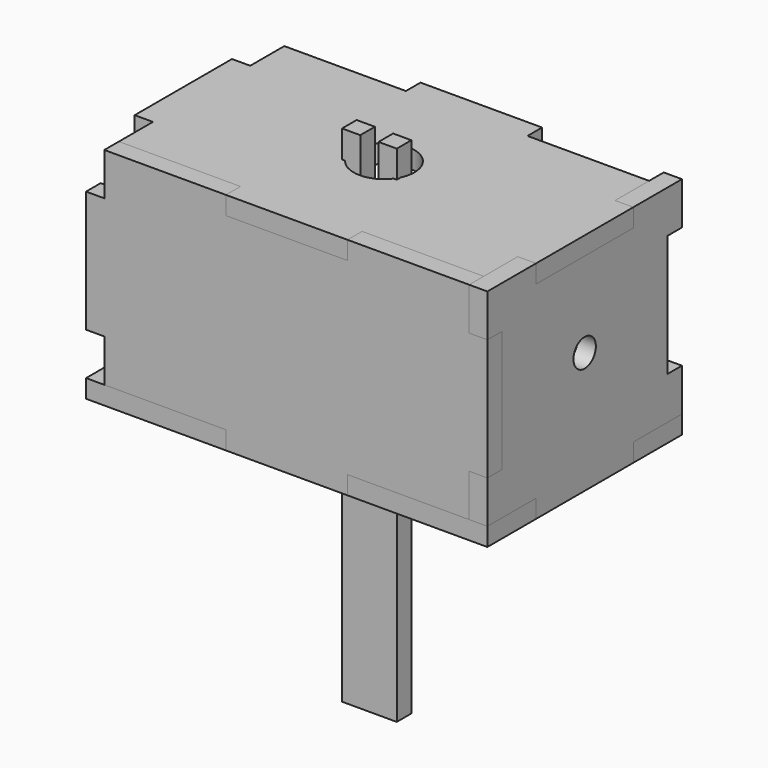
from build123d import *

# Parameters (mm, degrees)
F0_W     = 3
F0_H     = 10
F0_R     = 5
F1_DEPTH = 3
F2_R     = 2.3
F2_W     = 20
F2_H     = 3
F3_DEPTH = 3
F5_DEPTH = 3
F6_R     = 5
F6_W     = 20
F6_H     = 3
F6_W_2   = 3
F6_H_2   = 20
F7_DEPTH = 3
F8_W     = 3
F8_H     = 20
F8_W_2   = 20
F8_H_2   = 3
F9_DEPTH = 3


with BuildPart() as f1:
    # F0 (on Top) → F1 (new body)
    with BuildSketch(Plane.XY):
        Polygon((33, 10), (33, 20), (10, 20), (10, 17), (-10, 17), (-10, 20), (-33, 20), (-33, 10), (-30, 10), (-30, -10), (-33, -10), (-33, -20), (-10, -20), (-10, -17), (10, -17), (10, -20), (33, -20), (33, -10), (30, -10), (30, 10), align=None)
        with Locations((-10, 0)):
            Rectangle(F0_W, F0_H, mode=Mode.SUBTRACT)
        Circle(F0_R, mode=Mode.SUBTRACT)
        with Locations((10, 0)):
            Rectangle(F0_W, F0_H, mode=Mode.SUBTRACT)
    extrude(amount=F1_DEPTH)


with BuildPart() as f3:
    # F2 (on face) → F3 (new body)
    with BuildSketch(Plane.YZ.offset(30)):
        Polygon((-20, 10), (-20, 3), (-10, 3), (10, 3), (20, 3), (20, 10), (17, 10), (17, 30), (20, 30), (20, 37), (10, 37), (10, 34), (-10, 34), (-10, 37), (-20, 37), (-20, 30), (-17, 30), (-17, 10), align=None)
        with Locations((0, 20)):
            Circle(F2_R, mode=Mode.SUBTRACT)
        with Locations((0, 1.5)):
            Rectangle(F2_W, F2_H)
    extrude(amount=F3_DEPTH)


with BuildPart() as f5:
    # F4 (on Front) → F5 (new body)
    with BuildSketch(Plane.XZ):
        Polygon((4.5, -41.5), (4.5, 41.5), (1.5, 41.5), (1.5, 0), (-1.5, 0), (-1.5, 41.5), (-4.5, 41.5), (-4.5, -41.5), align=None)
    extrude(amount=F5_DEPTH)


with BuildPart() as f7:
    # F6 (on face) → F7 (new body)
    with BuildSketch(Plane.XY.offset(34)):
        Polygon((-30, -10), (-30, -17), (-10, -17), (10, -17), (30, -17), (30, -10), (30, 10), (30, 17), (10, 17), (-10, 17), (-30, 17), (-30, 10), align=None)
        Circle(F6_R, mode=Mode.SUBTRACT)
        with Locations((0, -18.5)):
            Rectangle(F6_W, F6_H)
        with Locations((-31.5, 0)):
            Rectangle(F6_W_2, F6_H_2)
        with Locations((31.5, 0)):
            Rectangle(F6_W_2, F6_H_2)
        with Locations((0, 18.5)):
            Rectangle(F6_W, F6_H)
    extrude(amount=F7_DEPTH)


with BuildPart() as f9:
    # F8 (on face) → F9 (new body)
    with BuildSketch(Plane.XZ.offset(17)):
        Polygon((-30, 10), (-30, 3), (-10, 3), (10, 3), (30, 3), (30, 10), (30, 30), (30, 37), (10, 37), (10, 34), (-10, 34), (-10, 37), (-30, 37), (-30, 30), align=None)
        with Locations((-31.5, 20)):
            Rectangle(F8_W, F8_H)
        with Locations((0, 1.5)):
            Rectangle(F8_W_2, F8_H_2)
        with Locations((31.5, 20)):
            Rectangle(F8_W, F8_H)
    extrude(amount=F9_DEPTH)


solid = Compound([f1.part, f3.part, f5.part, f7.part, f9.part])
